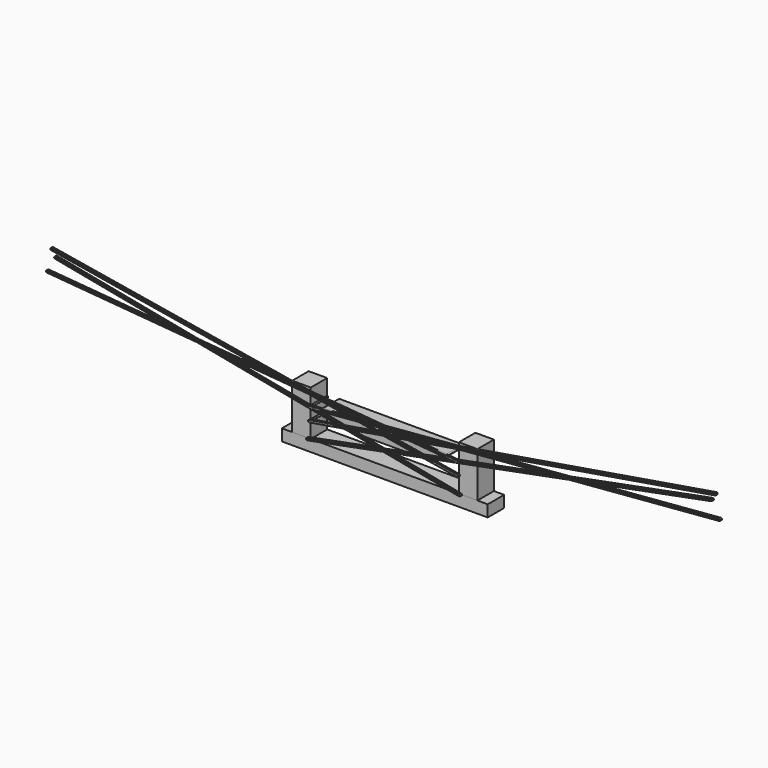
from build123d import *

# Parameters (mm, degrees)
F1_DEPTH  = 254
F3_DEPTH  = 25.4
F5_DEPTH  = 25.4
F7_DEPTH  = 25.4
F9_DEPTH  = 25.4
F11_R     = 6.35
F12_DEPTH = 25.4
F13_W     = 2540
F13_H     = 143.1619226933
F14_DEPTH = 254


with BuildPart() as f1:
    # F0 (on Front) → F1 (new body)
    with BuildSketch(Plane.XZ):
        with BuildLine():
            Line((-927.1, 0), (-914.4, 0))
            Line((-914.4, 0), (-914.4, 190.5))
            ThreePointArc((-914.4, 190.5), (-927.1, 203.2), (-914.4, 215.9))
            Line((-914.4, 215.9), (-914.4, 279.4))
            Line((-914.4, 279.4), (-914.4, 342.9))
            ThreePointArc((-914.4, 342.9), (-927.1, 355.6), (-914.4, 368.3))
            Line((-914.4, 368.3), (-914.4, 558.8))
            Line((-914.4, 558.8), (-1143, 558.8))
            Line((-1143, 558.8), (-1143, 0))
            Line((-1143, 0), (-952.5, 0))
            ThreePointArc((-952.5, 0), (-939.8, 12.7), (-927.1, 0))
        make_face()
        with BuildLine():
            Line((-914.4, 355.6), (-914.4, 342.9))
            ThreePointArc((-914.4, 342.9), (-905.4197438789, 346.6197438789), (-901.7, 355.6))
            ThreePointArc((-901.7, 355.6), (-905.4197438789, 364.5802561211), (-914.4, 368.3))
            Line((-914.4, 368.3), (-914.4, 355.6))
        make_face()
        with BuildLine():
            ThreePointArc((-914.4, 368.3), (-927.1, 355.6), (-914.4, 342.9))
            Line((-914.4, 342.9), (-914.4, 355.6))
            Line((-914.4, 355.6), (-914.4, 368.3))
        make_face()
        with BuildLine():
            ThreePointArc((-914.4, 215.9), (-927.1, 203.2), (-914.4, 190.5))
            Line((-914.4, 190.5), (-914.4, 203.2))
            Line((-914.4, 203.2), (-914.4, 215.9))
        make_face()
        with BuildLine():
            Line((-914.4, 203.2), (-914.4, 190.5))
            ThreePointArc((-914.4, 190.5), (-905.4197438789, 194.2197438789), (-901.7, 203.2))
            ThreePointArc((-901.7, 203.2), (-905.4197438789, 212.1802561211), (-914.4, 215.9))
            Line((-914.4, 215.9), (-914.4, 203.2))
        make_face()
        with BuildLine():
            Line((-952.5, 0), (-927.1, 0))
            ThreePointArc((-927.1, 0), (-939.8, 12.7), (-952.5, 0))
        make_face()
        with BuildLine():
            ThreePointArc((-952.5, 0), (-939.8, -12.7), (-927.1, 0))
            Line((-927.1, 0), (-952.5, 0))
        make_face()
    extrude(amount=F1_DEPTH)


with BuildPart() as f1b:
    # F0 (on Front) → F1, piece 2 (new body)
    with BuildSketch(Plane.XZ):
        with BuildLine():
            ThreePointArc((-769.62, 358.14), (-766.0160926284, 356.2517221148), (-762, 355.6))
            ThreePointArc((-762, 355.6), (-753.0197438789, 359.3197438789), (-749.3, 368.3))
            ThreePointArc((-749.3, 368.3), (-753.0197438789, 377.2802561211), (-762, 381))
            ThreePointArc((-762, 381), (-774.0482778852, 372.3160926284), (-769.62, 358.14))
        make_face()
        with BuildLine():
            Line((-762, 352.425), (-664.6333333333, 279.4))
            Line((-664.6333333333, 279.4), (-609.6, 279.4))
            Line((-609.6, 279.4), (0, 279.4))
            Line((0, 279.4), (0, 381))
            Line((0, 381), (-762, 381))
            ThreePointArc((-762, 381), (-753.0197438789, 377.2802561211), (-749.3, 368.3))
            ThreePointArc((-749.3, 368.3), (-753.0197438789, 359.3197438789), (-762, 355.6))
            Line((-762, 355.6), (-762, 352.425))
        make_face()
        with BuildLine():
            Line((-769.62, 358.14), (-762, 352.425))
            Line((-762, 352.425), (-762, 355.6))
            ThreePointArc((-762, 355.6), (-766.0160926284, 356.2517221148), (-769.62, 358.14))
        make_face()
        with BuildLine():
            Line((-609.6, 279.4), (-664.6333333333, 279.4))
            Line((-664.6333333333, 279.4), (-617.22, 243.84))
            ThreePointArc((-617.22, 243.84), (-621.6482778852, 258.0160926284), (-609.6, 266.7))
            Line((-609.6, 266.7), (-609.6, 279.4))
        make_face()
        with BuildLine():
            ThreePointArc((-609.6, 266.7), (-621.6482778852, 258.0160926284), (-617.22, 243.84))
            ThreePointArc((-617.22, 243.84), (-613.6160926284, 241.9517221148), (-609.6, 241.3))
            ThreePointArc((-609.6, 241.3), (-600.6197438789, 245.0197438789), (-596.9, 254))
            ThreePointArc((-596.9, 254), (-600.6197438789, 262.9802561211), (-609.6, 266.7))
        make_face()
        with BuildLine():
            Line((0, 279.4), (-609.6, 279.4))
            Line((-609.6, 279.4), (-609.6, 266.7))
            ThreePointArc((-609.6, 266.7), (-600.6197438789, 262.9802561211), (-596.9, 254))
            ThreePointArc((-596.9, 254), (-600.6197438789, 245.0197438789), (-609.6, 241.3))
            Line((-609.6, 241.3), (0, 241.3))
            Line((0, 241.3), (0, 279.4))
        make_face()
        with BuildLine():
            Line((617.22, 243.84), (664.6333333333, 279.4))
            Line((664.6333333333, 279.4), (0, 279.4))
            Line((0, 279.4), (0, 241.3))
            Line((0, 241.3), (609.6, 241.3))
            ThreePointArc((609.6, 241.3), (600.6197438789, 262.9802561211), (622.3, 254))
            ThreePointArc((622.3, 254), (620.9592253257, 248.3203873372), (617.22, 243.84))
        make_face()
        with BuildLine():
            ThreePointArc((609.6, 241.3), (613.6160926284, 241.9517221148), (617.22, 243.84))
            ThreePointArc((617.22, 243.84), (620.9592253257, 248.3203873372), (622.3, 254))
            ThreePointArc((622.3, 254), (600.6197438789, 262.9802561211), (609.6, 241.3))
        make_face()
        with BuildLine():
            Line((0, 279.4), (664.6333333333, 279.4))
            Line((664.6333333333, 279.4), (769.62, 358.14))
            ThreePointArc((769.62, 358.14), (749.9517221148, 364.2839073716), (762, 381))
            Line((762, 381), (0, 381))
            Line((0, 381), (0, 279.4))
        make_face()
        with BuildLine():
            ThreePointArc((762, 381), (749.9517221148, 364.2839073716), (769.62, 358.14))
            ThreePointArc((769.62, 358.14), (773.3592253257, 362.6203873372), (774.7, 368.3))
            ThreePointArc((774.7, 368.3), (770.9802561211, 377.2802561211), (762, 381))
        make_face()
    extrude(amount=F1_DEPTH)


with BuildPart() as f1c:
    # F0 (on Front) → F1, piece 3 (new body)
    with BuildSketch(Plane.XZ):
        with BuildLine():
            Line((914.4, 368.3), (914.4, 342.9))
            ThreePointArc((914.4, 342.9), (923.3802561211, 346.6197438789), (927.1, 355.6))
            ThreePointArc((927.1, 355.6), (923.3802561211, 364.5802561211), (914.4, 368.3))
        make_face()
        with BuildLine():
            ThreePointArc((914.4, 368.3), (901.7, 355.6), (914.4, 342.9))
            Line((914.4, 342.9), (914.4, 368.3))
        make_face()
        with BuildLine():
            Line((914.4, 190.5), (914.4, 0))
            Line((914.4, 0), (927.1, 0))
            ThreePointArc((927.1, 0), (939.8, 12.7), (952.5, 0))
            Line((952.5, 0), (1143, 0))
            Line((1143, 0), (1143, 558.8))
            Line((1143, 558.8), (914.4, 558.8))
            Line((914.4, 558.8), (914.4, 368.3))
            ThreePointArc((914.4, 368.3), (923.3802561211, 364.5802561211), (927.1, 355.6))
            ThreePointArc((927.1, 355.6), (923.3802561211, 346.6197438789), (914.4, 342.9))
            Line((914.4, 342.9), (914.4, 279.4))
            Line((914.4, 279.4), (914.4, 215.9))
            ThreePointArc((914.4, 215.9), (923.3802561211, 212.1802561211), (927.1, 203.2))
            ThreePointArc((927.1, 203.2), (923.3802561211, 194.2197438789), (914.4, 190.5))
        make_face()
        with BuildLine():
            Line((914.4, 215.9), (914.4, 190.5))
            ThreePointArc((914.4, 190.5), (923.3802561211, 194.2197438789), (927.1, 203.2))
            ThreePointArc((927.1, 203.2), (923.3802561211, 212.1802561211), (914.4, 215.9))
        make_face()
        with BuildLine():
            ThreePointArc((914.4, 215.9), (901.7, 203.2), (914.4, 190.5))
            Line((914.4, 190.5), (914.4, 215.9))
        make_face()
        with BuildLine():
            ThreePointArc((952.5, 0), (939.8, 12.7), (927.1, 0))
            Line((927.1, 0), (952.5, 0))
        make_face()
        with BuildLine():
            Line((952.5, 0), (927.1, 0))
            ThreePointArc((927.1, 0), (939.8, -12.7), (952.5, 0))
        make_face()
    extrude(amount=F1_DEPTH)


with BuildPart() as f3:
    # F2 (on face) → F3 (new body)
    with BuildSketch(Plane.XZ.offset(254)):
        with BuildLine():
            ThreePointArc((-915.4546775941, 368.2561311297), (-905.8007094899, 364.9457050415), (-901.7, 355.6))
            ThreePointArc((-901.7, 355.6), (-905.0542949585, 347.0007094899), (-913.3453224059, 342.9438688703))
            Line((-913.3453224059, 342.9438688703), (-765.7571748849, 355.2428811637))
            Line((-765.7571748849, 355.2428811637), (-769.62, 358.14))
            ThreePointArc((-769.62, 358.14), (-774.2047724415, 371.8119125347), (-763.0546783548, 380.9561310663))
            Line((-763.0546783548, 380.9561310663), (-915.4546775941, 368.2561311297))
        make_face()
        with BuildLine():
            ThreePointArc((-762, 381), (-762.5277951581, 380.989028027), (-763.0546783548, 380.9561310663))
            ThreePointArc((-763.0546783548, 380.9561310663), (-774.2047724415, 371.8119125347), (-769.62, 358.14))
            ThreePointArc((-769.62, 358.14), (-765.5119140357, 356.0952279904), (-760.9453247582, 355.6438686743))
            ThreePointArc((-760.9453247582, 355.6438686743), (-754.7585578154, 357.8668070521), (-750.512130131, 362.8853120245))
            Line((-750.512130131, 362.8853120245), (-761.4726612029, 361.9719344351))
            ThreePointArc((-761.4726612029, 361.9719344351), (-768.3280655649, 367.7726612029), (-762.5273387971, 374.6280655649))
            Line((-762.5273387971, 374.6280655649), (-751.5668077251, 375.5414431542))
            ThreePointArc((-751.5668077251, 375.5414431542), (-756.1125696632, 379.5529180229), (-762, 381))
        make_face()
        with BuildLine():
            Line((4146.9977742898, 790.1271687867), (-763.0546783548, 380.9561310663))
            ThreePointArc((-763.0546783548, 380.9561310663), (-762.5277951581, 380.989028027), (-762, 381))
            Line((-762, 381), (-686.0641255754, 381))
            Line((-686.0641255754, 381), (4147.5251130869, 783.7991032219))
            Line((4147.5251130869, 783.7991032219), (4146.9977742898, 790.1271687867))
        make_face()
        with BuildLine():
            Line((-686.0641255754, 381), (-762, 381))
            ThreePointArc((-762, 381), (-756.1125696632, 379.5529180229), (-751.5668077251, 375.5414431542))
            Line((-751.5668077251, 375.5414431542), (-686.0641255754, 381))
        make_face()
        with BuildLine():
            ThreePointArc((-750.512130131, 362.8853120245), (-754.7585578154, 357.8668070521), (-760.9453247582, 355.6438686743))
            Line((-760.9453247582, 355.6438686743), (-456.6717488493, 381))
            Line((-456.6717488493, 381), (-533.1358744247, 381))
            Line((-533.1358744247, 381), (-750.512130131, 362.8853120245))
        make_face()
        Polygon((-456.6717488493, 381), (4149.1071294781, 764.8149065273), (4148.5797906811, 771.1429720921), (-533.1358744247, 381), align=None)
        with BuildLine():
            ThreePointArc((4149.1071294781, 764.8149065273), (4160.7085830137, 778.5257152511), (4146.9977742898, 790.1271687867))
            Line((4146.9977742898, 790.1271687867), (4147.5251130869, 783.7991032219))
            ThreePointArc((4147.5251130869, 783.7991032219), (4152.352097139, 782.1438901778), (4154.402451884, 777.471037657))
            ThreePointArc((4154.402451884, 777.471037657), (4152.7253044047, 773.171392402), (4148.5797906811, 771.1429720921))
            Line((4148.5797906811, 771.1429720921), (4149.1071294781, 764.8149065273))
        make_face()
        with BuildLine():
            ThreePointArc((-913.3453224059, 342.9438688703), (-905.0542949585, 347.0007094899), (-901.7, 355.6))
            ThreePointArc((-901.7, 355.6), (-905.8007094899, 364.9457050415), (-915.4546775941, 368.2561311297))
            ThreePointArc((-915.4546775941, 368.2561311297), (-927.0561311297, 354.5453224059), (-913.3453224059, 342.9438688703))
        make_face()
    extrude(amount=F3_DEPTH)


with BuildPart() as f5:
    # F4 (on face) → F5 (new body)
    with BuildSketch(Plane.XZ.offset(254)):
        with BuildLine():
            ThreePointArc((4098.5690002061, 1025.8196526785), (4109.0083359, 1040.43472265), (4094.3932659285, 1050.8740583439))
            Line((4094.3932659285, 1050.8740583439), (4095.4371994979, 1044.6104569276))
            ThreePointArc((4095.4371994979, 1044.6104569276), (4100.5856136577, 1043.1920323999), (4102.8311330673, 1038.3468555112))
            ThreePointArc((4102.8311330673, 1038.3468555112), (4101.326309956, 1034.2423749208), (4097.5250666367, 1032.0832540949))
            Line((4097.5250666367, 1032.0832540949), (4098.5690002061, 1025.8196526785))
        make_face()
        with BuildLine():
            ThreePointArc((-597.7071905392, 249.5445445656), (-601.5282533334, 244.1950570756), (-607.5121347308, 241.4727968557))
            Line((-607.5121347308, 241.4727968557), (229.6510841348, 381))
            Line((229.6510841348, 381), (191.0255420674, 381))
            Line((191.0255420674, 381), (-597.7071905392, 249.5445445656))
        make_face()
        with BuildLine():
            Line((75.1489158652, 381), (-611.6878673993, 266.5272027892))
            ThreePointArc((-611.6878673993, 266.5272027892), (-605.1445446893, 265.8928095072), (-599.7950576779, 262.0717473982))
            Line((-599.7950576779, 262.0717473982), (113.7744579326, 381))
            Line((113.7744579326, 381), (75.1489158652, 381))
        make_face()
        with BuildLine():
            Line((-611.6878673993, 266.5272027892), (-640.9638334791, 261.6478751093))
            Line((-640.9638334791, 261.6478751093), (-617.22, 243.84))
            ThreePointArc((-617.22, 243.84), (-621.9384749852, 257.0086600072), (-611.6878673993, 266.5272027892))
        make_face()
        with BuildLine():
            ThreePointArc((-916.4878671388, 215.7272028327), (-906.1910388191, 212.8903537774), (-901.7, 203.2))
            ThreePointArc((-901.7, 203.2), (-904.7096462226, 194.9910388191), (-912.3121328612, 190.6727971673))
            Line((-912.3121328612, 190.6727971673), (-608.5489158652, 241.3))
            Line((-608.5489158652, 241.3), (-609.6, 241.3))
            ThreePointArc((-609.6, 241.3), (-613.6160926284, 241.9517221148), (-617.22, 243.84))
            Line((-617.22, 243.84), (-640.9638334791, 261.6478751093))
            Line((-640.9638334791, 261.6478751093), (-916.4878671388, 215.7272028327))
        make_face()
        with BuildLine():
            ThreePointArc((-599.7950576779, 262.0717473982), (-605.1445446893, 265.8928095072), (-611.6878673993, 266.5272027892))
            ThreePointArc((-611.6878673993, 266.5272027892), (-621.9384749852, 257.0086600072), (-617.22, 243.84))
            ThreePointArc((-617.22, 243.84), (-613.6160926284, 241.9517221148), (-609.6, 241.3))
            ThreePointArc((-609.6, 241.3), (-608.5524981938, 241.3432729363), (-607.5121347308, 241.4727968557))
            ThreePointArc((-607.5121347308, 241.4727968557), (-601.5282533334, 244.1950570756), (-597.7071905392, 249.5445445656))
            Line((-597.7071905392, 249.5445445656), (-608.5560664306, 247.7363985837))
            ThreePointArc((-608.5560664306, 247.7363985837), (-615.8636014163, 252.9560664306), (-610.6439335694, 260.2636014163))
            Line((-610.6439335694, 260.2636014163), (-599.7950576779, 262.0717473982))
        make_face()
        with BuildLine():
            ThreePointArc((-912.3121328612, 190.6727971673), (-904.7096462226, 194.9910388191), (-901.7, 203.2))
            ThreePointArc((-901.7, 203.2), (-906.1910388191, 212.8903537774), (-916.4878671388, 215.7272028327))
            ThreePointArc((-916.4878671388, 215.7272028327), (-926.9272028327, 201.1121328612), (-912.3121328612, 190.6727971673))
        make_face()
        Polygon((4094.3932659285, 1050.8740583439), (75.1489158652, 381), (113.7744579326, 381), (4095.4371994979, 1044.6104569276), align=None)
        Polygon((191.0255420674, 381), (229.6510841348, 381), (4098.5690002061, 1025.8196526785), (4097.5250666367, 1032.0832540949), align=None)
    extrude(amount=F5_DEPTH)


with BuildPart() as f7:
    # F6 (on face) → F7 (new body)
    with BuildSketch(Plane.XZ.offset(254)):
        with BuildLine():
            ThreePointArc((-930.2007740057, 8.3153388573), (-935.6444958609, 12.0009076886), (-942.2016816943, 12.4708429963))
            ThreePointArc((-942.2016816943, 12.4708429963), (-949.592633903, 8.086675537), (-952.5, 0))
            ThreePointArc((-952.5, 0), (-947.886675537, -9.792633903), (-937.3983183057, -12.4708429963))
            ThreePointArc((-937.3983183057, -12.4708429963), (-931.4846611427, -9.5992259943), (-927.7990923114, -4.1555041391))
            Line((-927.7990923114, -4.1555041391), (-938.5991591528, -6.2354214982))
            ThreePointArc((-938.5991591528, -6.2354214982), (-946.0354214982, -1.2008408472), (-941.0008408472, 6.2354214982))
            Line((-941.0008408472, 6.2354214982), (-930.2007740057, 8.3153388573))
        make_face()
        with BuildLine():
            ThreePointArc((-930.2007740057, 8.3153388573), (-935.6444958609, 12.0009076886), (-942.2016816943, 12.4708429963))
            ThreePointArc((-942.2016816943, 12.4708429963), (-949.592633903, 8.086675537), (-952.5, 0))
            ThreePointArc((-952.5, 0), (-947.886675537, -9.792633903), (-937.3983183057, -12.4708429963))
            ThreePointArc((-937.3983183057, -12.4708429963), (-931.4846611427, -9.5992259943), (-927.7990923114, -4.1555041391))
            Line((-927.7990923114, -4.1555041391), (-938.5991591528, -6.2354214982))
            ThreePointArc((-938.5991591528, -6.2354214982), (-946.0354214982, -1.2008408472), (-941.0008408472, 6.2354214982))
            Line((-941.0008408472, 6.2354214982), (-930.2007740057, 8.3153388573))
        make_face()
        with BuildLine():
            ThreePointArc((-930.2007740057, 8.3153388573), (-935.6444958609, 12.0009076886), (-942.2016816943, 12.4708429963))
            ThreePointArc((-942.2016816943, 12.4708429963), (-949.592633903, 8.086675537), (-952.5, 0))
            ThreePointArc((-952.5, 0), (-947.886675537, -9.792633903), (-937.3983183057, -12.4708429963))
            ThreePointArc((-937.3983183057, -12.4708429963), (-931.4846611427, -9.5992259943), (-927.7990923114, -4.1555041391))
            Line((-927.7990923114, -4.1555041391), (-938.5991591528, -6.2354214982))
            ThreePointArc((-938.5991591528, -6.2354214982), (-946.0354214982, -1.2008408472), (-941.0008408472, 6.2354214982))
            Line((-941.0008408472, 6.2354214982), (-930.2007740057, 8.3153388573))
        make_face()
        with BuildLine():
            Line((4046.1355168377, 973.1435207287), (-914.4, 17.8249950786))
            Line((-914.4, 17.8249950786), (-914.4, 11.3583111485))
            Line((-914.4, 11.3583111485), (4036.5362908434, 964.8281818715))
            ThreePointArc((4036.5362908434, 964.8281818715), (4040.2218596748, 970.2719037267), (4046.1355168377, 973.1435207287))
        make_face()
        with BuildLine():
            ThreePointArc((-927.7990923114, -4.1555041391), (-931.4846611427, -9.5992259943), (-937.3983183057, -12.4708429963))
            Line((-937.3983183057, -12.4708429963), (4050.9388802264, 948.2018347361))
            ThreePointArc((4050.9388802264, 948.2018347361), (4044.381694393, 948.6717700438), (4038.9379725378, 952.3573388752))
            Line((4038.9379725378, 952.3573388752), (-927.7990923114, -4.1555041391))
        make_face()
        with BuildLine():
            ThreePointArc((4061.237198532, 960.6726777324), (4056.6238740691, 970.4653116355), (4046.1355168377, 973.1435207287))
            ThreePointArc((4046.1355168377, 973.1435207287), (4040.2218596748, 970.2719037267), (4036.5362908434, 964.8281818715))
            Line((4036.5362908434, 964.8281818715), (4047.3363576849, 966.9080992306))
            ThreePointArc((4047.3363576849, 966.9080992306), (4052.5805363005, 965.5689946839), (4054.887198532, 960.6726777324))
            ThreePointArc((4054.887198532, 960.6726777324), (4053.4335154836, 956.6293399639), (4049.7380393792, 954.4372562343))
            Line((4049.7380393792, 954.4372562343), (4038.9379725378, 952.3573388752))
            ThreePointArc((4038.9379725378, 952.3573388752), (4044.381694393, 948.6717700438), (4050.9388802264, 948.2018347361))
            ThreePointArc((4050.9388802264, 948.2018347361), (4058.3298324351, 952.5860021954), (4061.237198532, 960.6726777324))
        make_face()
        with BuildLine():
            Line((-914.4, 17.8249950786), (-942.2016816943, 12.4708429963))
            ThreePointArc((-942.2016816943, 12.4708429963), (-935.6444958609, 12.0009076886), (-930.2007740057, 8.3153388573))
            Line((-930.2007740057, 8.3153388573), (-914.4, 11.3583111485))
            Line((-914.4, 11.3583111485), (-914.4, 17.8249950786))
        make_face()
    extrude(amount=F7_DEPTH)


with BuildPart() as f9:
    # F8 (on face) → F9 (new body)
    with BuildSketch(Plane.XZ.offset(254)):
        with BuildLine():
            ThreePointArc((914.4, 501.65), (918.8901280605, 503.5098719395), (920.75, 508))
            ThreePointArc((920.75, 508), (918.8901280605, 512.4901280605), (914.4, 514.35))
            Line((914.4, 514.35), (914.4, 501.65))
        make_face()
        with BuildLine():
            Line((914.4, 501.65), (914.4, 514.35))
            ThreePointArc((914.4, 514.35), (908.05, 508), (914.4, 501.65))
        make_face()
    extrude(amount=F9_DEPTH)


with BuildPart() as f10_1:
    # F10: instance of F3
    add(f3.part.mirror(Plane.YZ))


with BuildPart() as f10_2:
    # F10: instance of F5
    add(f5.part.mirror(Plane.YZ))


with BuildPart() as f10_3:
    # F10: instance of F7
    add(f7.part.mirror(Plane.YZ))


with BuildPart() as f10_4:
    # F10: instance of F9
    add(f9.part.mirror(Plane.YZ))


with BuildPart() as f12:
    # F11 (on face) → F12 (new body)
    with BuildSketch(Plane.XZ.offset(254)):
        with Locations((0, 180.9902070771)):
            Circle(F11_R)
    extrude(amount=F12_DEPTH)


with BuildPart() as f14:
    # F13 (on face) → F14 (new body, through all)
    with BuildSketch(Plane.XZ.offset(254)):
        with Locations((0, -71.5809613466)):
            Rectangle(F13_W, F13_H)
    extrude(amount=-F14_DEPTH)


solid = Compound([f1.part, f1b.part, f1c.part, f3.part, f5.part, f7.part, f9.part, f10_1.part, f10_2.part, f10_3.part, f10_4.part, f12.part, f14.part])
